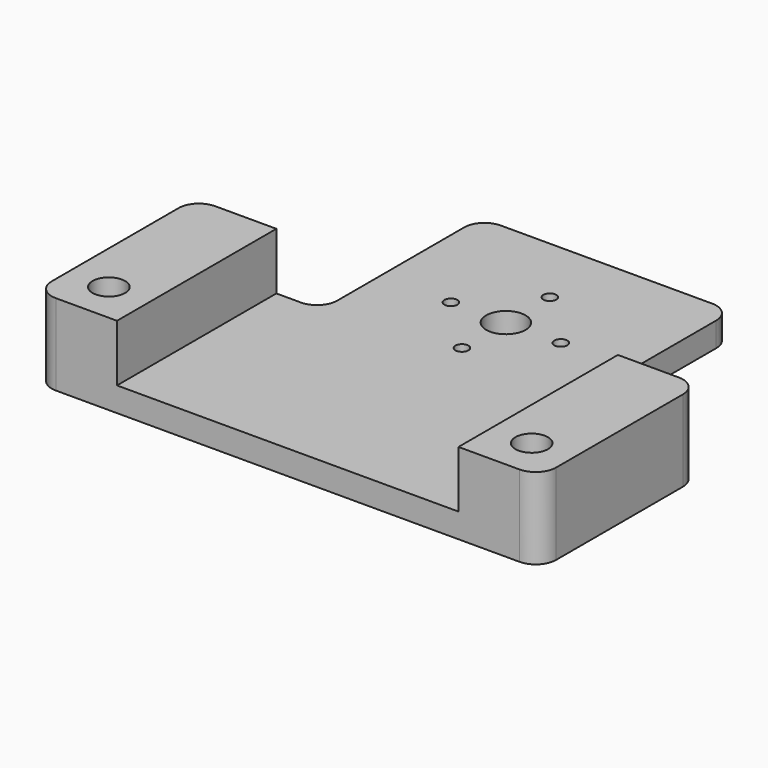
from build123d import *

# Parameters (mm, degrees)
F0_R     = 1.6
F0_R_2   = 4.849261
F0_R_3   = 4
F1_DEPTH = 6
F2_DEPTH = 20


with BuildPart() as f1:
    # F0 (on Top) → F1 (new body)
    with BuildSketch(Plane.XY):
        with BuildLine():
            Line((-42, -67), (0, -67))
            Line((0, -67), (42, -67))
            Line((42, -67), (42, -28))
            Line((42, -28), (36, -28))
            ThreePointArc((36, -28), (32.464466, -26.535534), (31, -23))
            Line((31, -23), (31, 15.99378))
            ThreePointArc((31, 15.99378), (29.535534, 19.529314), (26, 20.99378))
            Line((26, 20.99378), (-26, 20.99378))
            ThreePointArc((-26, 20.99378), (-29.535534, 19.529314), (-31, 15.99378))
            Line((-31, 15.99378), (-31, -23))
            ThreePointArc((-31, -23), (-32.464466, -26.535534), (-36, -28))
            Line((-36, -28), (-42, -28))
            Line((-42, -28), (-42, -67))
        make_face()
        with Locations((-13.515394, -9.937353)):
            Circle(F0_R, mode=Mode.SUBTRACT)
        with Locations((0, -23.452748)):
            Circle(F0_R, mode=Mode.SUBTRACT)
        with Locations((0, -9.937353)):
            Circle(F0_R_2, mode=Mode.SUBTRACT)
        with Locations((13.515394, -9.937353)):
            Circle(F0_R, mode=Mode.SUBTRACT)
        with Locations((0, 3.578041)):
            Circle(F0_R, mode=Mode.SUBTRACT)
        Polygon((42, -67), (0, -67), (-42, -67), (-42, -77), (42, -77), align=None)
        with BuildLine():
            Line((-42, -77), (-42, -67))
            Line((-42, -67), (-42, -28))
            Line((-42, -28), (-57.048286, -28))
            ThreePointArc((-57.048286, -28), (-60.58382, -29.464466), (-62.048286, -33))
            Line((-62.048286, -33), (-62.048286, -72))
            ThreePointArc((-62.048286, -72), (-60.58382, -75.535534), (-57.048286, -77))
            Line((-57.048286, -77), (-42, -77))
        make_face()
        with Locations((-52, -67)):
            Circle(F0_R_3, mode=Mode.SUBTRACT)
        with BuildLine():
            Line((42, -28), (42, -67))
            Line((42, -67), (42, -77))
            Line((42, -77), (57, -77))
            ThreePointArc((57, -77), (60.535534, -75.535534), (62, -72))
            Line((62, -72), (62, -33))
            ThreePointArc((62, -33), (60.535534, -29.464466), (57, -28))
            Line((57, -28), (42, -28))
        make_face()
        with BuildLine():
            ThreePointArc((56, -67), (52, -71), (48, -67))
            ThreePointArc((48, -67), (52, -63), (56, -67))
        make_face(mode=Mode.SUBTRACT)
    extrude(amount=F1_DEPTH)

    # F0 (on Top) → F2 (join)
    with BuildSketch(Plane.XY):
        with BuildLine():
            Line((42, -28), (42, -67))
            Line((42, -67), (42, -77))
            Line((42, -77), (57, -77))
            ThreePointArc((57, -77), (60.535534, -75.535534), (62, -72))
            Line((62, -72), (62, -33))
            ThreePointArc((62, -33), (60.535534, -29.464466), (57, -28))
            Line((57, -28), (42, -28))
        make_face()
        with BuildLine():
            ThreePointArc((56, -67), (52, -71), (48, -67))
            ThreePointArc((48, -67), (52, -63), (56, -67))
        make_face(mode=Mode.SUBTRACT)
        with BuildLine():
            Line((-42, -77), (-42, -67))
            Line((-42, -67), (-42, -28))
            Line((-42, -28), (-57.048286, -28))
            ThreePointArc((-57.048286, -28), (-60.58382, -29.464466), (-62.048286, -33))
            Line((-62.048286, -33), (-62.048286, -72))
            ThreePointArc((-62.048286, -72), (-60.58382, -75.535534), (-57.048286, -77))
            Line((-57.048286, -77), (-42, -77))
        make_face()
        with Locations((-52, -67)):
            Circle(F0_R_3, mode=Mode.SUBTRACT)
    extrude(amount=F2_DEPTH)


solid = f1.part
